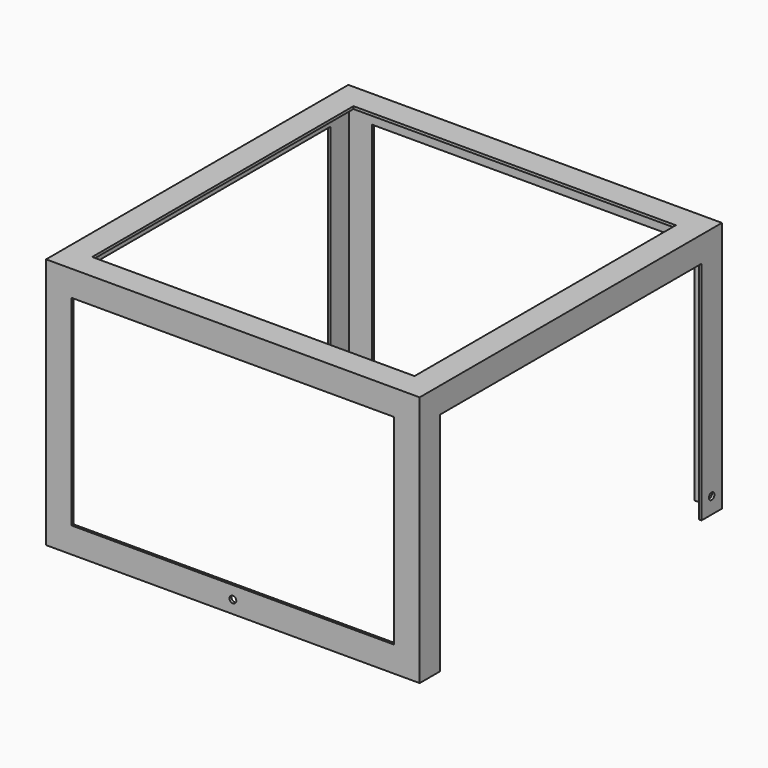
from build123d import *

# Parameters (mm, degrees)
F0_W          = 438
F0_H          = 443
F1_DEPTH      = 295
F2_T          = -3
F3_W          = 378
F3_H          = 265
F4_DEPTH      = 221.501
F4_DEPTH_BACK = 221.501
F5_W          = 383
F5_H          = 265
F6_DEPTH      = 219.001
F6_DEPTH_BACK = 219.001
F7_W          = 378
F7_H          = 383
F8_DEPTH      = 295.001
F9_W          = 378
F9_H          = 30
F9_R          = 4
F10_DEPTH     = 3
F11_R         = 4
F12_DEPTH     = 438.001


with BuildPart() as f1:
    # F0 (on Top) → F1 (new body)
    with BuildSketch(Plane.XY):
        Rectangle(F0_W, F0_H)
    extrude(amount=F1_DEPTH)

    # F2
    f2_openings = [f1.faces().sort_by_distance(p)[0] for p in [
        (0, 0, 0),
    ]]
    offset(amount=F2_T, openings=f2_openings)

    # F3 (on Front) → F4 (cut, two sides)
    with BuildSketch(Plane.XZ) as f4_sk:
        with Locations((0, 132.5)):
            Rectangle(F3_W, F3_H)
    extrude(amount=-F4_DEPTH, mode=Mode.SUBTRACT)
    extrude(f4_sk.sketch, amount=F4_DEPTH_BACK, mode=Mode.SUBTRACT)

    # F5 (on Right) → F6 (cut, two sides)
    with BuildSketch(Plane.YZ) as f6_sk:
        with Locations((0, 132.5)):
            Rectangle(F5_W, F5_H)
    extrude(amount=-F6_DEPTH, mode=Mode.SUBTRACT)
    extrude(f6_sk.sketch, amount=F6_DEPTH_BACK, mode=Mode.SUBTRACT)

    # F7 (on face) → F8 (cut, through all)
    with BuildSketch(Plane.XY.offset(295)):
        Rectangle(F7_W, F7_H)
    extrude(amount=-F8_DEPTH, mode=Mode.SUBTRACT)

    # F9 (on face) → F10 (join, through all)
    with BuildSketch(Plane.XZ.offset(221.5)):
        with Locations((0, 15)):
            Rectangle(F9_W, F9_H)
        with Locations((0, 15)):
            Circle(F9_R, mode=Mode.SUBTRACT)
    extrude(amount=-F10_DEPTH)

    # F11 (on face) → F12 (cut, through all)
    with BuildSketch(Plane.YZ.offset(219)):
        with Locations((206.5, 19)):
            Circle(F11_R)
    extrude(amount=-F12_DEPTH, mode=Mode.SUBTRACT)


solid = f1.part
